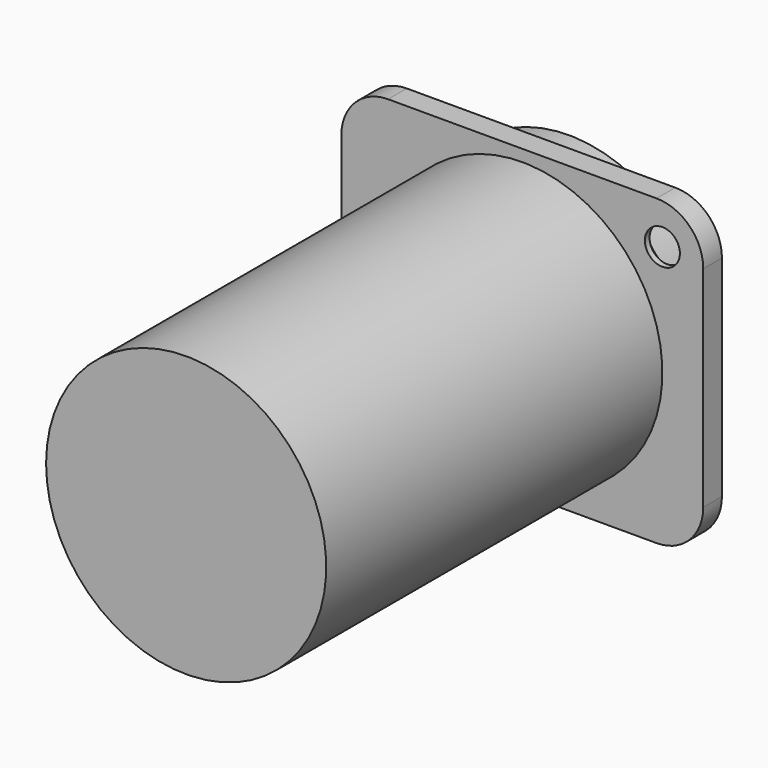
from build123d import *

# Parameters (mm, degrees)
F1_DEPTH       = 2
F2_D           = 3
F2_CSINK_D     = 6
F2_CSINK_ANGLE = 90
F3_R           = 12
F4_DEPTH       = 3
F5_DEPTH       = 38
F6_R           = 10
F6_W           = 14
F6_H           = 5
F7_DEPTH       = 20


with BuildPart() as f1:
    # F0 (on Front) → F1 (new body)
    with BuildSketch(Plane.XZ):
        with BuildLine():
            ThreePointArc((0, 4), (1.1715728753, 1.1715728753), (4, 0))
            Line((4, 0), (27, 0))
            ThreePointArc((27, 0), (29.8284271247, 1.1715728753), (31, 4))
            Line((31, 4), (31, 22))
            ThreePointArc((31, 22), (29.8284271247, 24.8284271247), (27, 26))
            Line((27, 26), (4, 26))
            ThreePointArc((4, 26), (1.1715728753, 24.8284271247), (0, 22))
            Line((0, 22), (0, 4))
        make_face()
    extrude(amount=F1_DEPTH)

    # F2 (through all)
    with Locations(Plane(origin=(0, 0, 0), x_dir=(1, 0, 0), z_dir=(0, 1, 0))):
        with Locations((27.5, -22.5), (3.5, -3.5)):
            CounterSinkHole(F2_D / 2, F2_CSINK_D / 2, counter_sink_angle=F2_CSINK_ANGLE)

    # F3 (on face) → F4 (join)
    with BuildSketch(Plane(origin=(0, 0, 0), x_dir=(-1, 0, 0), z_dir=(0, 1, 0))):
        with Locations((-15.5, 13)):
            Circle(F3_R)
    extrude(amount=F4_DEPTH)

    # F3 (on face) → F5 (join)
    with BuildSketch(Plane(origin=(0, 0, 0), x_dir=(-1, 0, 0), z_dir=(0, 1, 0))):
        with Locations((-15.5, 13)):
            Circle(F3_R)
    extrude(amount=-F5_DEPTH)

    # F6 (on face) → F7 (cut)
    with BuildSketch(Plane(origin=(0, 3, 0), x_dir=(-1, 0, 0), z_dir=(0, 1, 0))):
        with Locations((-15.5, 13)):
            Circle(F6_R)
        with Locations((-15.5, 13)):
            Rectangle(F6_W, F6_H, mode=Mode.SUBTRACT)
    extrude(amount=-F7_DEPTH, mode=Mode.SUBTRACT)


solid = f1.part
